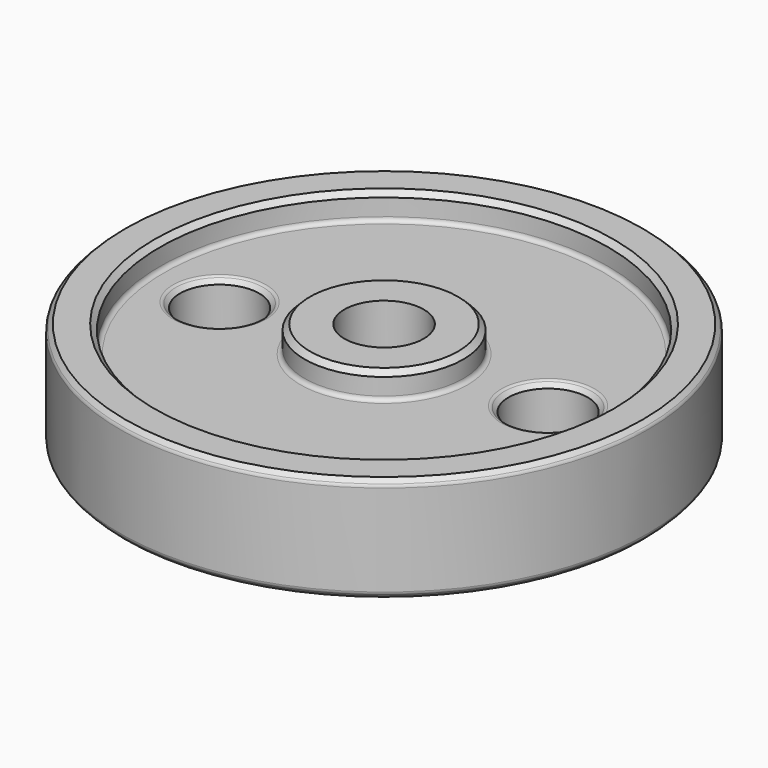
from build123d import *

# Parameters (mm, degrees)
F2_R      = 4.7625
F3_DEPTH  = 9.526
F4_SIZE   = 0.635
F5_SIZE   = 0.635
F6_SIZE   = 0.635
F7_R      = 1.111591
F8_DEPTH  = 9.652
F9_R      = 1.088093
F10_DEPTH = 9.525
F11_R     = 0.508


with BuildPart() as f1:
    # F0 (on Front) → F1 (revolve)
    with BuildSketch(Plane.XZ):
        Polygon((4.7752, 12.7), (4.7752, 0), (9.5504, 0), (9.5504, 3.175), (27.0002, 3.175), (27.0002, 0), (31.7754, 0), (31.7754, 12.7), (27.0002, 12.7), (27.0002, 9.525), (9.5504, 9.525), (9.5504, 12.7), align=None)
    revolve(axis=Axis((0, 0, 4.303233), (0, 0, 1)))

    # F2 (on face) → F3 (cut, through all)
    with BuildSketch(Plane.XY.offset(9.525)):
        with Locations((-18.694124, -1.382838)):
            Circle(F2_R)
        with Locations((18.641215, 1.378925)):
            Circle(F2_R)
    extrude(amount=-F3_DEPTH, mode=Mode.SUBTRACT)

    # F4
    f4_edges = [f1.edges().sort_by_distance(p)[0] for p in [
        (-23.456624, -1.382838, 9.525),
        (13.878715, 1.378925, 9.525),
        (-9.5504, 0, 12.7),
    ]]
    chamfer(f4_edges, length=F4_SIZE)

    # F5
    f5_edges = [f1.edges().sort_by_distance(p)[0] for p in [
        (-27.0002, 0, 12.7),
        (-31.7754, 0, 12.7),
    ]]
    chamfer(f5_edges, length=F5_SIZE)

    # F6
    f6_edges = [f1.edges().sort_by_distance(p)[0] for p in [
        (-31.7754, 0, 0),
        (-27.0002, 0, 0),
        (13.878715, 1.378925, 3.175),
        (-9.5504, 0, 0),
        (-23.456624, -1.382838, 3.175),
    ]]
    chamfer(f6_edges, length=F6_SIZE)

    # F7 (on face) → F8 (cut)
    with BuildSketch(Plane.XY.offset(9.525)):
        with Locations((0, -8.255466)):
            Circle(F7_R)
    extrude(amount=-F8_DEPTH, mode=Mode.SUBTRACT)

    # F9 (on face) → F10 (cut)
    with BuildSketch(Plane.XY.offset(9.525)):
        with Locations((0, -8.236631)):
            Circle(F9_R)
    extrude(amount=-F10_DEPTH, mode=Mode.SUBTRACT)

    # F11
    f11_edges = [f1.edges().sort_by_distance(p)[0] for p in [
        (-24.091624, -1.382838, 9.525),
        (-27.0002, 0, 9.525),
        (-9.5504, 0, 9.525),
        (13.243715, 1.378925, 9.525),
        (31.7754, 0, 6.35),
        (-31.7754, 0, 0.635),
        (-31.7754, 0, 12.065),
    ]]
    fillet(f11_edges, radius=F11_R)


solid = f1.part
